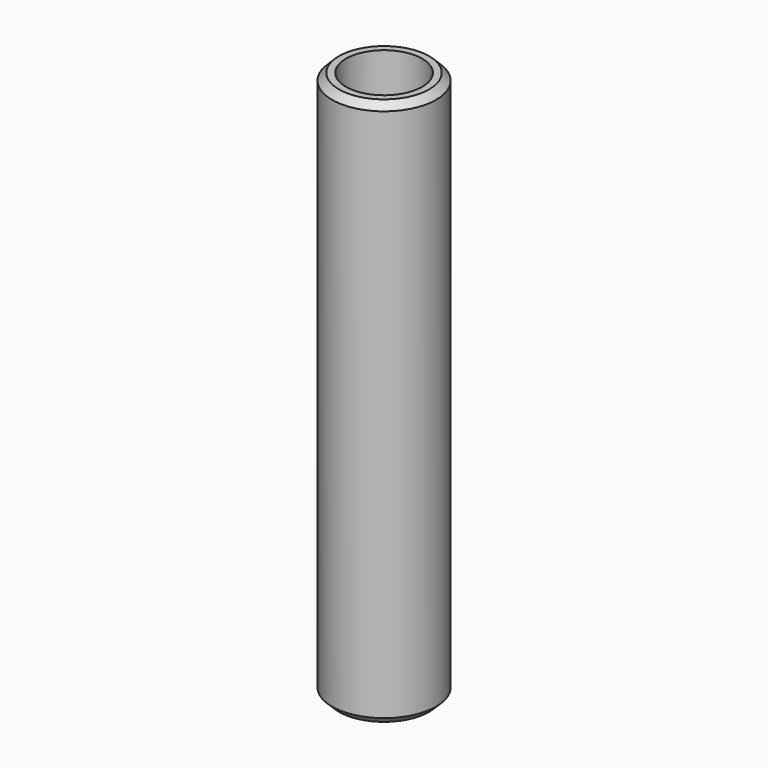
from build123d import *

# Parameters (mm, degrees)
F0_R     = 7.5
F1_DEPTH = 79
F2_T     = -2
F3_SIZE  = 1


with BuildPart() as f1:
    # F0 (on Top) → F1 (new body)
    with BuildSketch(Plane.XY):
        Circle(F0_R)
    extrude(amount=F1_DEPTH)

    # F2
    f2_openings = [f1.faces().sort_by_distance(p)[0] for p in [
        (0, 0, 79),
        (0, 0, 0),
    ]]
    offset(amount=F2_T, openings=f2_openings)

    # F3
    f3_edges = [f1.edges().sort_by_distance(p)[0] for p in [
        (-7.5, 0, 0),
        (-7.5, 0, 79),
    ]]
    chamfer(f3_edges, length=F3_SIZE)


solid = f1.part
